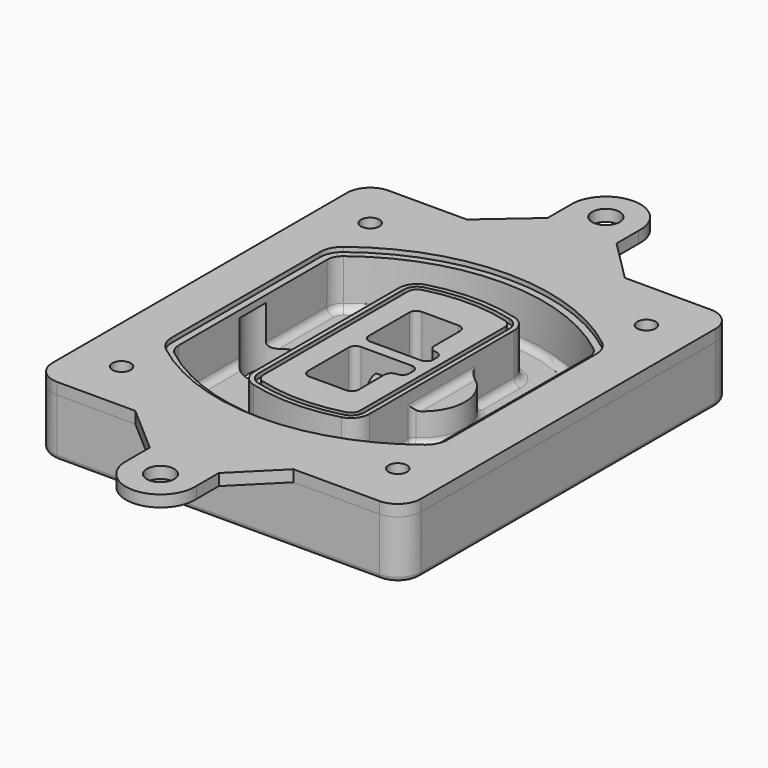
from build123d import *

# Parameters (mm, degrees)
F0_R      = 4
F1_DEPTH  = 25
F2_DEPTH  = 3
F3_DEPTH  = 18
F5_DEPTH  = 21
F6_DEPTH  = 2
F8_DEPTH  = 20
F9_DEPTH  = 16
F10_DEPTH = 25
F7_R      = 6
F7_R_2    = 4
F11_DEPTH = 6
F13_DEPTH = 9
F14_R     = 3
F15_R     = 2
F16_R     = 6
F16_R_2   = 4
F17_DEPTH = 5


with BuildPart() as f1:
    # F0 (on Top) → F1 (new body)
    with BuildSketch(Plane.XY):
        with BuildLine():
            ThreePointArc((-80, -80), (-77.0710678119, -87.0710678119), (-70, -90))
            Line((-70, -90), (70, -90))
            ThreePointArc((70, -90), (77.0710678119, -87.0710678119), (80, -80))
            Line((80, -80), (80, 80))
            ThreePointArc((80, 80), (77.0710678119, 87.0710678119), (70, 90))
            Line((70, 90), (-70, 90))
            ThreePointArc((-70, 90), (-77.0710678119, 87.0710678119), (-80, 80))
            Line((-80, 80), (-80, -80))
        make_face()
        with Locations((-60, -67.5)):
            Circle(F0_R, mode=Mode.SUBTRACT)
        with Locations((60, -67.5)):
            Circle(F0_R, mode=Mode.SUBTRACT)
        with Locations((-60, 67.5)):
            Circle(F0_R, mode=Mode.SUBTRACT)
        with BuildLine():
            ThreePointArc((-64, 40.2934422872), (-62.5820384798, 46.4328484224), (-58.6153846154, 51.3286200352))
            ThreePointArc((-58.6153846154, 51.3286200352), (0, 71.5), (58.6153846154, 51.3286200352))
            ThreePointArc((58.6153846154, 51.3286200352), (62.5820384798, 46.4328484224), (64, 40.2934422872))
            Line((64, 40.2934422872), (64, -40.2934422872))
            ThreePointArc((64, -40.2934422872), (62.5820384798, -46.4328484224), (58.6153846154, -51.3286200352))
            ThreePointArc((58.6153846154, -51.3286200352), (0, -71.5), (-58.6153846154, -51.3286200352))
            ThreePointArc((-58.6153846154, -51.3286200352), (-62.5820384798, -46.4328484224), (-64, -40.2934422872))
            Line((-64, -40.2934422872), (-64, 40.2934422872))
        make_face(mode=Mode.SUBTRACT)
        with Locations((60, 67.5)):
            Circle(F0_R, mode=Mode.SUBTRACT)
        with BuildLine():
            ThreePointArc((58.6153846154, 51.3286200352), (0, 71.5), (-58.6153846154, 51.3286200352))
            ThreePointArc((-58.6153846154, 51.3286200352), (-62.5820384798, 46.4328484224), (-64, 40.2934422872))
            Line((-64, 40.2934422872), (-64, -40.2934422872))
            ThreePointArc((-64, -40.2934422872), (-62.5820384798, -46.4328484224), (-58.6153846154, -51.3286200352))
            ThreePointArc((-58.6153846154, -51.3286200352), (0, -71.5), (58.6153846154, -51.3286200352))
            ThreePointArc((58.6153846154, -51.3286200352), (62.5820384798, -46.4328484224), (64, -40.2934422872))
            Line((64, -40.2934422872), (64, 40.2934422872))
            ThreePointArc((64, 40.2934422872), (62.5820384798, 46.4328484224), (58.6153846154, 51.3286200352))
        make_face()
        with BuildLine():
            Line((-60, -40.2934422872), (-60, 40.2934422872))
            ThreePointArc((-60, 40.2934422872), (-58.9871703427, 44.6787323838), (-56.1538461538, 48.1757121072))
            ThreePointArc((-56.1538461538, 48.1757121072), (0, 67.5), (56.1538461538, 48.1757121072))
            ThreePointArc((56.1538461538, 48.1757121072), (58.9871703427, 44.6787323838), (60, 40.2934422872))
            Line((60, 40.2934422872), (60, -40.2934422872))
            ThreePointArc((60, -40.2934422872), (58.9871703427, -44.6787323838), (56.1538461538, -48.1757121072))
            ThreePointArc((56.1538461538, -48.1757121072), (0, -67.5), (-56.1538461538, -48.1757121072))
            ThreePointArc((-56.1538461538, -48.1757121072), (-58.9871703427, -44.6787323838), (-60, -40.2934422872))
        make_face(mode=Mode.SUBTRACT)
        with BuildLine():
            ThreePointArc((-56.1538461538, 48.1757121072), (-58.9871703427, 44.6787323838), (-60, 40.2934422872))
            Line((-60, 40.2934422872), (-60, -40.2934422872))
            ThreePointArc((-60, -40.2934422872), (-58.9871703427, -44.6787323838), (-56.1538461538, -48.1757121072))
            ThreePointArc((-56.1538461538, -48.1757121072), (0, -67.5), (56.1538461538, -48.1757121072))
            ThreePointArc((56.1538461538, -48.1757121072), (58.9871703427, -44.6787323838), (60, -40.2934422872))
            Line((60, -40.2934422872), (60, 40.2934422872))
            ThreePointArc((60, 40.2934422872), (58.9871703427, 44.6787323838), (56.1538461538, 48.1757121072))
            ThreePointArc((56.1538461538, 48.1757121072), (0, 67.5), (-56.1538461538, 48.1757121072))
        make_face()
        with BuildLine():
            ThreePointArc((54.3076923077, 45.8110311612), (56.2910192399, 43.3631453548), (57, 40.2934422872))
            Line((57, 40.2934422872), (57, -40.2934422872))
            ThreePointArc((57, -40.2934422872), (56.2910192399, -43.3631453548), (54.3076923077, -45.8110311612))
            ThreePointArc((54.3076923077, -45.8110311612), (0, -64.5), (-54.3076923077, -45.8110311612))
            ThreePointArc((-54.3076923077, -45.8110311612), (-56.2910192399, -43.3631453548), (-57, -40.2934422872))
            Line((-57, -40.2934422872), (-57, 40.2934422872))
            ThreePointArc((-57, 40.2934422872), (-56.2910192399, 43.3631453548), (-54.3076923077, 45.8110311612))
            ThreePointArc((-54.3076923077, 45.8110311612), (0, 64.5), (54.3076923077, 45.8110311612))
        make_face(mode=Mode.SUBTRACT)
        with BuildLine():
            Line((57, -40.2934422872), (57, 40.2934422872))
            ThreePointArc((57, 40.2934422872), (56.2910192399, 43.3631453548), (54.3076923077, 45.8110311612))
            ThreePointArc((54.3076923077, 45.8110311612), (0, 64.5), (-54.3076923077, 45.8110311612))
            ThreePointArc((-54.3076923077, 45.8110311612), (-56.2910192399, 43.3631453548), (-57, 40.2934422872))
            Line((-57, 40.2934422872), (-57, -40.2934422872))
            ThreePointArc((-57, -40.2934422872), (-56.2910192399, -43.3631453548), (-54.3076923077, -45.8110311612))
            ThreePointArc((-54.3076923077, -45.8110311612), (0, -64.5), (54.3076923077, -45.8110311612))
            ThreePointArc((54.3076923077, -45.8110311612), (56.2910192399, -43.3631453548), (57, -40.2934422872))
        make_face()
    extrude(amount=-F1_DEPTH)

    # F0 (on Top) → F2 (join)
    with BuildSketch(Plane.XY):
        with BuildLine():
            ThreePointArc((-56.1538461538, 48.1757121072), (-58.9871703427, 44.6787323838), (-60, 40.2934422872))
            Line((-60, 40.2934422872), (-60, -40.2934422872))
            ThreePointArc((-60, -40.2934422872), (-58.9871703427, -44.6787323838), (-56.1538461538, -48.1757121072))
            ThreePointArc((-56.1538461538, -48.1757121072), (0, -67.5), (56.1538461538, -48.1757121072))
            ThreePointArc((56.1538461538, -48.1757121072), (58.9871703427, -44.6787323838), (60, -40.2934422872))
            Line((60, -40.2934422872), (60, 40.2934422872))
            ThreePointArc((60, 40.2934422872), (58.9871703427, 44.6787323838), (56.1538461538, 48.1757121072))
            ThreePointArc((56.1538461538, 48.1757121072), (0, 67.5), (-56.1538461538, 48.1757121072))
        make_face()
        with BuildLine():
            ThreePointArc((54.3076923077, 45.8110311612), (56.2910192399, 43.3631453548), (57, 40.2934422872))
            Line((57, 40.2934422872), (57, -40.2934422872))
            ThreePointArc((57, -40.2934422872), (56.2910192399, -43.3631453548), (54.3076923077, -45.8110311612))
            ThreePointArc((54.3076923077, -45.8110311612), (0, -64.5), (-54.3076923077, -45.8110311612))
            ThreePointArc((-54.3076923077, -45.8110311612), (-56.2910192399, -43.3631453548), (-57, -40.2934422872))
            Line((-57, -40.2934422872), (-57, 40.2934422872))
            ThreePointArc((-57, 40.2934422872), (-56.2910192399, 43.3631453548), (-54.3076923077, 45.8110311612))
            ThreePointArc((-54.3076923077, 45.8110311612), (0, 64.5), (54.3076923077, 45.8110311612))
        make_face(mode=Mode.SUBTRACT)
    extrude(amount=F2_DEPTH)

    # F0 (on Top) → F3 (cut)
    with BuildSketch(Plane.XY):
        with BuildLine():
            Line((57, -40.2934422872), (57, 40.2934422872))
            ThreePointArc((57, 40.2934422872), (56.2910192399, 43.3631453548), (54.3076923077, 45.8110311612))
            ThreePointArc((54.3076923077, 45.8110311612), (0, 64.5), (-54.3076923077, 45.8110311612))
            ThreePointArc((-54.3076923077, 45.8110311612), (-56.2910192399, 43.3631453548), (-57, 40.2934422872))
            Line((-57, 40.2934422872), (-57, -40.2934422872))
            ThreePointArc((-57, -40.2934422872), (-56.2910192399, -43.3631453548), (-54.3076923077, -45.8110311612))
            ThreePointArc((-54.3076923077, -45.8110311612), (0, -64.5), (54.3076923077, -45.8110311612))
            ThreePointArc((54.3076923077, -45.8110311612), (56.2910192399, -43.3631453548), (57, -40.2934422872))
        make_face()
    extrude(amount=-F3_DEPTH, mode=Mode.SUBTRACT)

    # F4 (on face) → F5 (join, through all)
    with BuildSketch(Plane.XY.offset(3)):
        with BuildLine():
            ThreePointArc((-25, -39.2465276821), (-23.3511545998, -44.1109737193), (-19.0842911877, -46.9702398883))
            ThreePointArc((-19.0842911877, -46.9702398883), (0, -49.5), (19.0842911877, -46.9702398883))
            ThreePointArc((19.0842911877, -46.9702398883), (23.3511545998, -44.1109737193), (25, -39.2465276821))
            Line((25, -39.2465276821), (25, 39.2465276821))
            ThreePointArc((25, 39.2465276821), (23.3511545998, 44.1109737193), (19.0842911877, 46.9702398883))
            ThreePointArc((19.0842911877, 46.9702398883), (0, 49.5), (-19.0842911877, 46.9702398883))
            ThreePointArc((-19.0842911877, 46.9702398883), (-23.3511545998, 44.1109737193), (-25, 39.2465276821))
            Line((-25, 39.2465276821), (-25, -39.2465276821))
        make_face()
        with BuildLine():
            ThreePointArc((18.5632183908, 45.0393118368), (21.7633659499, 42.89486221), (23, 39.2465276821))
            Line((23, 39.2465276821), (23, -39.2465276821))
            ThreePointArc((23, -39.2465276821), (21.7633659499, -42.89486221), (18.5632183908, -45.0393118368))
            ThreePointArc((18.5632183908, -45.0393118368), (0, -47.5), (-18.5632183908, -45.0393118368))
            ThreePointArc((-18.5632183908, -45.0393118368), (-21.7633659499, -42.89486221), (-23, -39.2465276821))
            Line((-23, -39.2465276821), (-23, 39.2465276821))
            ThreePointArc((-23, 39.2465276821), (-21.7633659499, 42.89486221), (-18.5632183908, 45.0393118368))
            ThreePointArc((-18.5632183908, 45.0393118368), (0, 47.5), (18.5632183908, 45.0393118368))
        make_face(mode=Mode.SUBTRACT)
        with BuildLine():
            Line((23, -39.2465276821), (23, 39.2465276821))
            ThreePointArc((23, 39.2465276821), (21.7633659499, 42.89486221), (18.5632183908, 45.0393118368))
            ThreePointArc((18.5632183908, 45.0393118368), (0, 47.5), (-18.5632183908, 45.0393118368))
            ThreePointArc((-18.5632183908, 45.0393118368), (-21.7633659499, 42.89486221), (-23, 39.2465276821))
            Line((-23, 39.2465276821), (-23, -39.2465276821))
            ThreePointArc((-23, -39.2465276821), (-21.7633659499, -42.89486221), (-18.5632183908, -45.0393118368))
            ThreePointArc((-18.5632183908, -45.0393118368), (0, -47.5), (18.5632183908, -45.0393118368))
            ThreePointArc((18.5632183908, -45.0393118368), (21.7633659499, -42.89486221), (23, -39.2465276821))
        make_face()
        with BuildLine():
            ThreePointArc((18.0421455939, 43.1083837852), (20.1755772999, 41.6787507007), (21, 39.2465276821))
            Line((21, 39.2465276821), (21, -39.2465276821))
            ThreePointArc((21, -39.2465276821), (20.1755772999, -41.6787507007), (18.0421455939, -43.1083837852))
            ThreePointArc((18.0421455939, -43.1083837852), (0, -45.5), (-18.0421455939, -43.1083837852))
            ThreePointArc((-18.0421455939, -43.1083837852), (-20.1755772999, -41.6787507007), (-21, -39.2465276821))
            Line((-21, -39.2465276821), (-21, 39.2465276821))
            ThreePointArc((-21, 39.2465276821), (-20.1755772999, 41.6787507007), (-18.0421455939, 43.1083837852))
            ThreePointArc((-18.0421455939, 43.1083837852), (0, 45.5), (18.0421455939, 43.1083837852))
        make_face(mode=Mode.SUBTRACT)
        with BuildLine():
            Line((21, -39.2465276821), (21, 39.2465276821))
            ThreePointArc((21, 39.2465276821), (20.1755772999, 41.6787507007), (18.0421455939, 43.1083837852))
            ThreePointArc((18.0421455939, 43.1083837852), (0, 45.5), (-18.0421455939, 43.1083837852))
            ThreePointArc((-18.0421455939, 43.1083837852), (-20.1755772999, 41.6787507007), (-21, 39.2465276821))
            Line((-21, 39.2465276821), (-21, -39.2465276821))
            ThreePointArc((-21, -39.2465276821), (-20.1755772999, -41.6787507007), (-18.0421455939, -43.1083837852))
            ThreePointArc((-18.0421455939, -43.1083837852), (0, -45.5), (18.0421455939, -43.1083837852))
            ThreePointArc((18.0421455939, -43.1083837852), (20.1755772999, -41.6787507007), (21, -39.2465276821))
        make_face()
        with BuildLine():
            Line((-8, -2.5), (14, -2.5))
            ThreePointArc((14, -2.5), (16.1213203436, -3.3786796564), (17, -5.5))
            Line((17, -5.5), (17, -7.5))
            ThreePointArc((17, -7.5), (16.1213203436, -9.6213203436), (14, -10.5))
            ThreePointArc((14, -10.5), (11.8786796564, -11.3786796564), (11, -13.5))
            Line((11, -13.5), (11, -27.5))
            ThreePointArc((11, -27.5), (10.1213203436, -29.6213203436), (8, -30.5))
            Line((8, -30.5), (-8, -30.5))
            ThreePointArc((-8, -30.5), (-10.1213203436, -29.6213203436), (-11, -27.5))
            Line((-11, -27.5), (-11, -5.5))
            ThreePointArc((-11, -5.5), (-10.1213203436, -3.3786796564), (-8, -2.5))
        make_face(mode=Mode.SUBTRACT)
        with BuildLine():
            ThreePointArc((-8, 2.5), (-10.1213203436, 3.3786796564), (-11, 5.5))
            Line((-11, 5.5), (-11, 27.5))
            ThreePointArc((-11, 27.5), (-10.1213203436, 29.6213203436), (-8, 30.5))
            Line((-8, 30.5), (8, 30.5))
            ThreePointArc((8, 30.5), (10.1213203436, 29.6213203436), (11, 27.5))
            Line((11, 27.5), (11, 13.5))
            ThreePointArc((11, 13.5), (11.8786796564, 11.3786796564), (14, 10.5))
            ThreePointArc((14, 10.5), (16.1213203436, 9.6213203436), (17, 7.5))
            Line((17, 7.5), (17, 5.5))
            ThreePointArc((17, 5.5), (16.1213203436, 3.3786796564), (14, 2.5))
            Line((14, 2.5), (-8, 2.5))
        make_face(mode=Mode.SUBTRACT)
    extrude(amount=-F5_DEPTH)

    # F4 (on face) → F6 (cut)
    with BuildSketch(Plane.XY.offset(3)):
        with BuildLine():
            Line((23, -39.2465276821), (23, 39.2465276821))
            ThreePointArc((23, 39.2465276821), (21.7633659499, 42.89486221), (18.5632183908, 45.0393118368))
            ThreePointArc((18.5632183908, 45.0393118368), (0, 47.5), (-18.5632183908, 45.0393118368))
            ThreePointArc((-18.5632183908, 45.0393118368), (-21.7633659499, 42.89486221), (-23, 39.2465276821))
            Line((-23, 39.2465276821), (-23, -39.2465276821))
            ThreePointArc((-23, -39.2465276821), (-21.7633659499, -42.89486221), (-18.5632183908, -45.0393118368))
            ThreePointArc((-18.5632183908, -45.0393118368), (0, -47.5), (18.5632183908, -45.0393118368))
            ThreePointArc((18.5632183908, -45.0393118368), (21.7633659499, -42.89486221), (23, -39.2465276821))
        make_face()
        with BuildLine():
            ThreePointArc((18.0421455939, 43.1083837852), (20.1755772999, 41.6787507007), (21, 39.2465276821))
            Line((21, 39.2465276821), (21, -39.2465276821))
            ThreePointArc((21, -39.2465276821), (20.1755772999, -41.6787507007), (18.0421455939, -43.1083837852))
            ThreePointArc((18.0421455939, -43.1083837852), (0, -45.5), (-18.0421455939, -43.1083837852))
            ThreePointArc((-18.0421455939, -43.1083837852), (-20.1755772999, -41.6787507007), (-21, -39.2465276821))
            Line((-21, -39.2465276821), (-21, 39.2465276821))
            ThreePointArc((-21, 39.2465276821), (-20.1755772999, 41.6787507007), (-18.0421455939, 43.1083837852))
            ThreePointArc((-18.0421455939, 43.1083837852), (0, 45.5), (18.0421455939, 43.1083837852))
        make_face(mode=Mode.SUBTRACT)
    extrude(amount=-F6_DEPTH, mode=Mode.SUBTRACT)

    # F7 (on face) → F8 (join)
    with BuildSketch(Plane(origin=(0, 0, -25), x_dir=(1, 0, 0), z_dir=(0, 0, -1))):
        with BuildLine():
            ThreePointArc((3.28842436, 0), (16.7567035675, 13.4682792075), (30.224982775, 0))
            Line((30.224982775, 0), (35.224982775, 0))
            ThreePointArc((35.224982775, 0), (16.7567035675, 18.4682792075), (-1.71157564, 0))
            Line((-1.71157564, 0), (3.28842436, 0))
        make_face()
        with BuildLine():
            Line((3.28842436, 0), (30.224982775, 0))
            ThreePointArc((30.224982775, 0), (16.7567035675, 13.4682792075), (3.28842436, 0))
        make_face()
        with BuildLine():
            ThreePointArc((3.28842436, 0), (16.7567035675, -13.4682792075), (30.224982775, 0))
            Line((30.224982775, 0), (3.28842436, 0))
        make_face()
        with BuildLine():
            Line((35.224982775, 0), (30.224982775, 0))
            ThreePointArc((30.224982775, 0), (16.7567035675, -13.4682792075), (3.28842436, 0))
            Line((3.28842436, 0), (-1.71157564, 0))
            ThreePointArc((-1.71157564, 0), (16.7567035675, -18.4682792075), (35.224982775, 0))
        make_face()
    extrude(amount=-F8_DEPTH)

    # F7 (on face) → F9 (cut)
    with BuildSketch(Plane(origin=(0, 0, -25), x_dir=(1, 0, 0), z_dir=(0, 0, -1))):
        with BuildLine():
            Line((3.28842436, 0), (30.224982775, 0))
            ThreePointArc((30.224982775, 0), (16.7567035675, 13.4682792075), (3.28842436, 0))
        make_face()
        with BuildLine():
            ThreePointArc((3.28842436, 0), (16.7567035675, -13.4682792075), (30.224982775, 0))
            Line((30.224982775, 0), (3.28842436, 0))
        make_face()
    extrude(amount=-F9_DEPTH, mode=Mode.SUBTRACT)

    # F7 (on face) → F10 (cut)
    with BuildSketch(Plane(origin=(0, 0, -25), x_dir=(1, 0, 0), z_dir=(0, 0, -1))):
        with BuildLine():
            Line((-59.0318229325, 0), (-32.0952645175, 0))
            ThreePointArc((-32.0952645175, 0), (-45.563543725, 13.4682792075), (-59.0318229325, 0))
        make_face()
        with BuildLine():
            ThreePointArc((-59.0318229325, 0), (-45.563543725, -13.4682792075), (-32.0952645175, 0))
            Line((-32.0952645175, 0), (-59.0318229325, 0))
        make_face()
    extrude(amount=-F10_DEPTH, mode=Mode.SUBTRACT)

    # F7 (on face) → F11 (cut)
    with BuildSketch(Plane(origin=(0, 0, -25), x_dir=(1, 0, 0), z_dir=(0, 0, -1))):
        with Locations((60, -67.5)):
            Circle(F7_R)
        with Locations((60, -67.5)):
            Circle(F7_R_2, mode=Mode.SUBTRACT)
        with Locations((60, -67.5)):
            Circle(F7_R)
        with Locations((60, -67.5)):
            Circle(F7_R_2, mode=Mode.SUBTRACT)
        with Locations((-60, -67.5)):
            Circle(F7_R)
        with Locations((-60, -67.5)):
            Circle(F7_R_2, mode=Mode.SUBTRACT)
        with Locations((-60, -67.5)):
            Circle(F7_R)
        with Locations((-60, -67.5)):
            Circle(F7_R_2, mode=Mode.SUBTRACT)
        with Locations((-60, 67.5)):
            Circle(F7_R)
        with Locations((-60, 67.5)):
            Circle(F7_R_2, mode=Mode.SUBTRACT)
        with Locations((-60, 67.5)):
            Circle(F7_R)
        with Locations((-60, 67.5)):
            Circle(F7_R_2, mode=Mode.SUBTRACT)
        with Locations((60, 67.5)):
            Circle(F7_R)
        with Locations((60, 67.5)):
            Circle(F7_R_2, mode=Mode.SUBTRACT)
        with Locations((60, 67.5)):
            Circle(F7_R)
        with Locations((60, 67.5)):
            Circle(F7_R_2, mode=Mode.SUBTRACT)
    extrude(amount=-F11_DEPTH, mode=Mode.SUBTRACT)

    # F12 (on face) → F13 (cut, through all)
    with BuildSketch(Plane(origin=(0, 0, -9), x_dir=(1, 0, 0), z_dir=(0, 0, -1))):
        with BuildLine():
            Line((11, 13.5), (11, 17.5481537753))
            ThreePointArc((11, 17.5481537753), (2.5696536419, 11.8239143813), (-1.5415842455, 2.5))
            Line((-1.5415842455, 2.5), (3.5224848595, 2.5))
            ThreePointArc((3.5224848595, 2.5), (6.1857188154, 8.3455872281), (11.2536447004, 12.2927168648))
            ThreePointArc((11.2536447004, 12.2927168648), (11.0640958889, 12.8831798879), (11, 13.5))
        make_face()
        with BuildLine():
            ThreePointArc((11.2536447004, -12.2927168648), (6.1857188154, -8.3455872281), (3.5224848595, -2.5))
            Line((3.5224848595, -2.5), (-1.5415842455, -2.5))
            ThreePointArc((-1.5415842455, -2.5), (2.5696536419, -11.8239143813), (11, -17.5481537753))
            Line((11, -17.5481537753), (11, -13.5))
            ThreePointArc((11, -13.5), (11.0640958889, -12.8831798879), (11.2536447004, -12.2927168648))
        make_face()
        with BuildLine():
            ThreePointArc((11.2536447004, 12.2927168648), (6.1857188154, 8.3455872281), (3.5224848595, 2.5))
            Line((3.5224848595, 2.5), (14, 2.5))
            ThreePointArc((14, 2.5), (16.1213203436, 3.3786796564), (17, 5.5))
            Line((17, 5.5), (17, 7.5))
            ThreePointArc((17, 7.5), (16.1213203436, 9.6213203436), (14, 10.5))
            ThreePointArc((14, 10.5), (12.3601599782, 10.9878446101), (11.2536447004, 12.2927168648))
        make_face()
        with BuildLine():
            Line((14, -2.5), (3.5224848595, -2.5))
            ThreePointArc((3.5224848595, -2.5), (6.1857188154, -8.3455872281), (11.2536447004, -12.2927168648))
            ThreePointArc((11.2536447004, -12.2927168648), (12.3601599782, -10.9878446101), (14, -10.5))
            ThreePointArc((14, -10.5), (16.1213203436, -9.6213203436), (17, -7.5))
            Line((17, -7.5), (17, -5.5))
            ThreePointArc((17, -5.5), (16.1213203436, -3.3786796564), (14, -2.5))
        make_face()
    extrude(amount=F13_DEPTH, mode=Mode.SUBTRACT)

    # F14
    f14_edges = [f1.edges().sort_by_distance(p)[0] for p in [
        (-57, -23.703476, -18),
        (-57, 23.703476, -18),
        (25, 0, -5),
        (25, 16.526506, -11.5),
        (25, -16.526506, -11.5),
        (25, -27.886517, -18),
        (35.224983, 0, -18),
    ]]
    fillet(f14_edges, radius=F14_R)

    # F15
    f15_edges = [f1.edges().sort_by_distance(p)[0] for p in [
        (0, -90, -25),
    ]]
    fillet(f15_edges, radius=F15_R)


with BuildPart() as f17:
    # F16 (on face) → F17 (new body)
    with BuildSketch(Plane.XY):
        with BuildLine():
            Line((14.6170736498, 108), (14.6170736498, 120))
            ThreePointArc((14.6170736498, 120), (-0.3550728561, 135.9136897755), (-15.327219362, 120))
            Line((-15.327219362, 120), (-15.327219362, 108))
            Line((-15.327219362, 108), (-36.0364317894, 90))
            Line((-36.0364317894, 90), (32.6170736498, 90))
            Line((32.6170736498, 90), (14.6170736498, 108))
        make_face()
        with Locations((-0.3550728561, 120.9136897755)):
            Circle(F16_R, mode=Mode.SUBTRACT)
        with BuildLine():
            Line((70, 90), (32.6170736498, 90))
            Line((32.6170736498, 90), (-36.0364317894, 90))
            Line((-36.0364317894, 90), (-70, 90))
            ThreePointArc((-70, 90), (-77.0710678119, 87.0710678119), (-80, 80))
            Line((-80, 80), (-80, -80))
            ThreePointArc((-80, -80), (-77.0710678119, -87.0710678119), (-70, -90))
            Line((-70, -90), (-36.0364317894, -90))
            Line((-36.0364317894, -90), (32.6170736498, -90))
            Line((32.6170736498, -90), (70, -90))
            ThreePointArc((70, -90), (77.0710678119, -87.0710678119), (80, -80))
            Line((80, -80), (80, 80))
            ThreePointArc((80, 80), (77.0710678119, 87.0710678119), (70, 90))
        make_face()
        with Locations((-60, -67.5)):
            Circle(F16_R_2, mode=Mode.SUBTRACT)
        with Locations((60, -67.5)):
            Circle(F16_R_2, mode=Mode.SUBTRACT)
        with Locations((-60, 67.5)):
            Circle(F16_R_2, mode=Mode.SUBTRACT)
        with BuildLine():
            ThreePointArc((-60, 40.2934422872), (-58.9871703427, 44.6787323838), (-56.1538461538, 48.1757121072))
            ThreePointArc((-56.1538461538, 48.1757121072), (0, 67.5), (56.1538461538, 48.1757121072))
            ThreePointArc((56.1538461538, 48.1757121072), (58.9871703427, 44.6787323838), (60, 40.2934422872))
            Line((60, 40.2934422872), (60, -40.2934422872))
            ThreePointArc((60, -40.2934422872), (58.9871703427, -44.6787323838), (56.1538461538, -48.1757121072))
            ThreePointArc((56.1538461538, -48.1757121072), (0, -67.5), (-56.1538461538, -48.1757121072))
            ThreePointArc((-56.1538461538, -48.1757121072), (-58.9871703427, -44.6787323838), (-60, -40.2934422872))
            Line((-60, -40.2934422872), (-60, 40.2934422872))
        make_face(mode=Mode.SUBTRACT)
        with Locations((60, 67.5)):
            Circle(F16_R_2, mode=Mode.SUBTRACT)
        with BuildLine():
            Line((14.6170736498, -108), (32.6170736498, -90))
            Line((32.6170736498, -90), (-36.0364317894, -90))
            Line((-36.0364317894, -90), (-15.327219362, -108))
            Line((-15.327219362, -108), (-15.327219362, -120))
            ThreePointArc((-15.327219362, -120), (-0.3550728561, -135.9136897755), (14.6170736498, -120))
            Line((14.6170736498, -120), (14.6170736498, -108))
        make_face()
        with Locations((-0.3550728561, -120.9136897755)):
            Circle(F16_R, mode=Mode.SUBTRACT)
    extrude(amount=F17_DEPTH)


solid = Compound([f1.part, f17.part])
